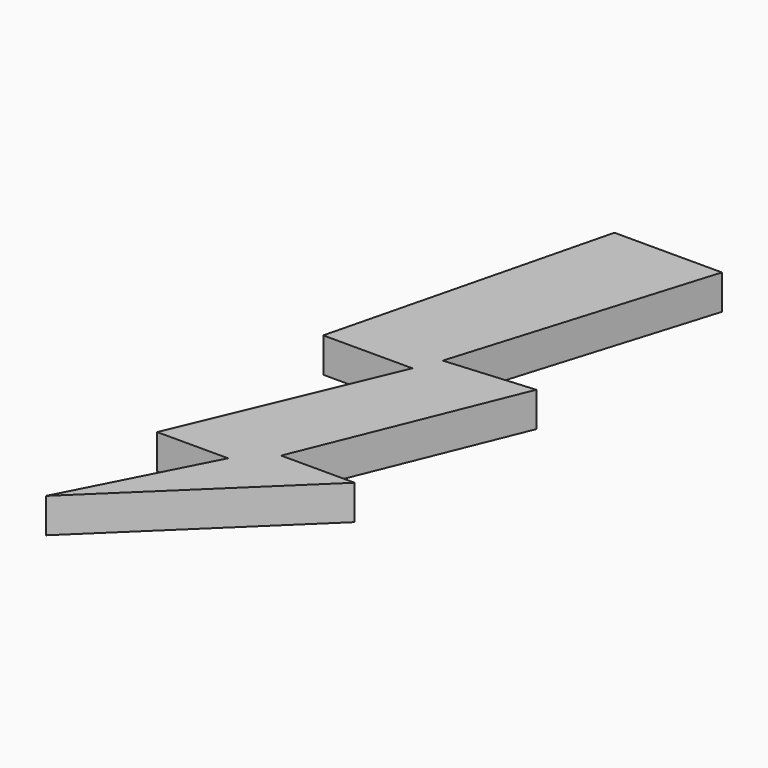
from build123d import *

# Parameters (mm, degrees)
PAD_DEPTH = 5


with BuildPart() as part:
    # Sketch → Pad (new body)
    with BuildSketch(Plane.XY):
        Polygon((9.94334, 9.961243), (22.776348, 9.961243), (10.078366, -20.119213), (20.290859, -20.119213), (10.025856, -40.074848), (35.135139, -15.880204), (24.547932, -15.880204), (36.942719, 14.590315), (24.289711, 13.557418), (35.393368, 49.96711), (19.899874, 49.96711), align=None)
    extrude(amount=PAD_DEPTH)


solid = part.part
